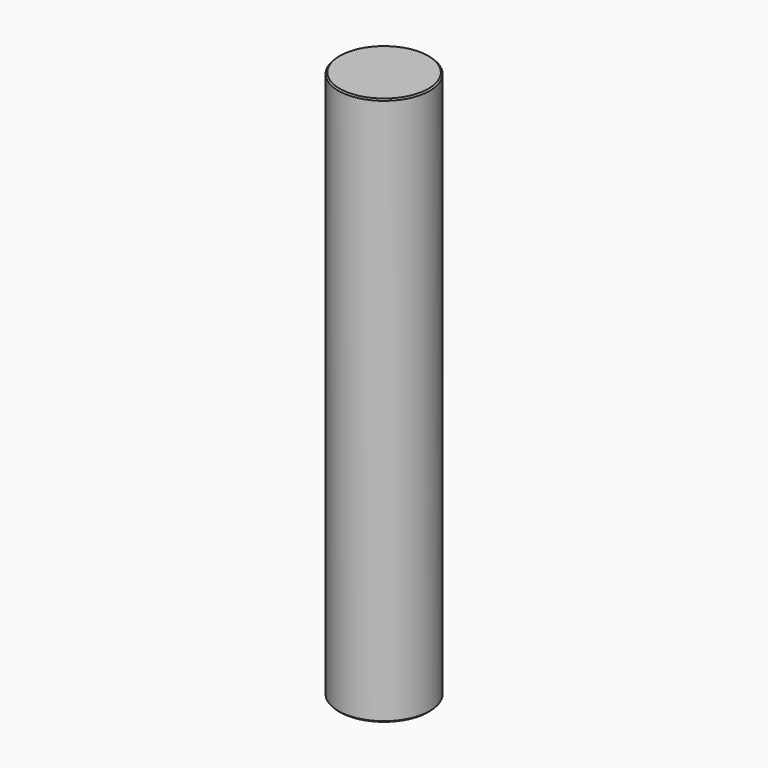
from build123d import *

# Parameters (mm, degrees)
F0_R     = 10
F0_R_2   = 7.5
F1_DEPTH = 120
F2_DEPTH = 15.1
F3_D     = 6.8
F3_DEPTH = 45
F3_TIP   = 2.0429261047
F4_SIZE  = 0.3


with BuildPart() as f1:
    # F0 (on Top) → F1 (new body)
    with BuildSketch(Plane.XY):
        Circle(F0_R)
        Circle(F0_R_2, mode=Mode.SUBTRACT)
        Circle(F0_R_2)
    extrude(amount=F1_DEPTH)

    # F0 (on Top) → F2 (cut)
    with BuildSketch(Plane.XY):
        Circle(F0_R_2)
    extrude(amount=F2_DEPTH, mode=Mode.SUBTRACT)

    # F3
    with Locations(Plane(origin=(0, 0, 0), x_dir=(1, 0, 0), z_dir=(0, 0, -1))):
        with Locations((0, 0)):
            Hole(F3_D / 2, depth=F3_DEPTH)
            with Locations((0, 0, -(F3_DEPTH + F3_TIP / 2))):  # 118° drill point
                Cone(0, F3_D / 2, F3_TIP, mode=Mode.SUBTRACT)

    # F4
    f4_edges = [f1.edges().sort_by_distance(p)[0] for p in [
        (-10, 0, 120),
        (-7.5, 0, 0),
        (-10, 0, 0),
    ]]
    chamfer(f4_edges, length=F4_SIZE)


solid = f1.part
